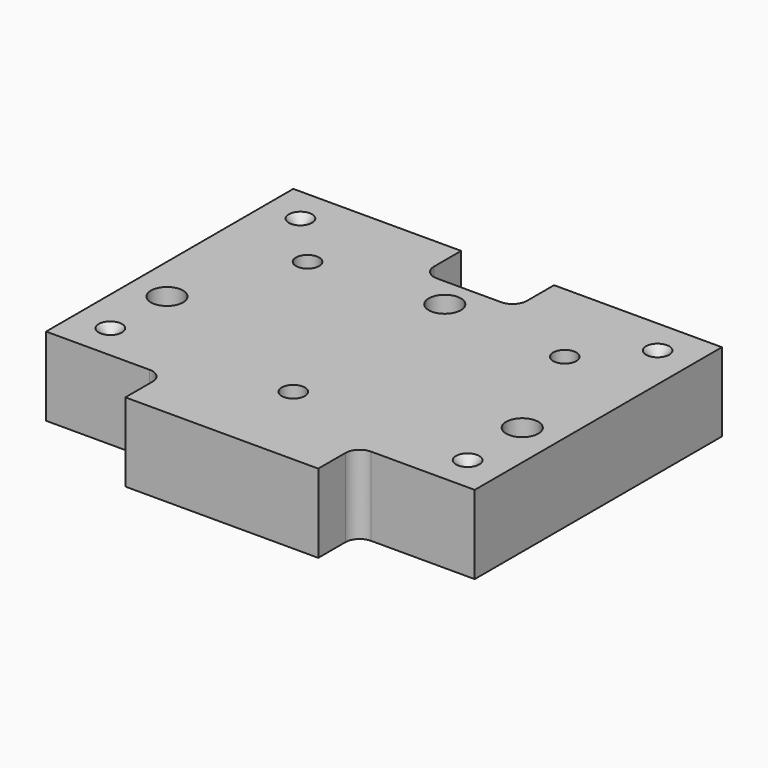
from build123d import *

# Parameters (mm, degrees)
SKETCH_W        = 120
SKETCH_H        = 100
PAD_DEPTH       = 22
SKETCH001_R     = 4.5
POCKET_DEPTH    = 22.001
POCKET001_DEPTH = 22.001
SKETCH003_R     = 1
POCKET002_DEPTH = 22.001
SKETCH004_R     = 10
POCKET003_DEPTH = 1.2
SKETCH005_R     = 3.25
POCKET004_DEPTH = 20.801
CHAMFER_SIZE    = 2.25


with BuildPart() as part:
    # Sketch → Pad (new body)
    with BuildSketch(Plane.XY):
        Rectangle(SKETCH_W, SKETCH_H)
    extrude(amount=PAD_DEPTH)

    # Sketch001 → Pocket (cut, through all)
    with BuildSketch(Plane(origin=(0, 0, 0), x_dir=(1, 0, 0), z_dir=(0, 0, -1))):
        with Locations((-49.725, 7.03)):
            Circle(SKETCH001_R)
        with Locations((0, -28.025)):
            Circle(SKETCH001_R)
        with Locations((49.725, 7.03)):
            Circle(SKETCH001_R)
    extrude(amount=-POCKET_DEPTH, mode=Mode.SUBTRACT)

    # Sketch002 → Pocket001 (cut, through all)
    with BuildSketch(Plane.XY.offset(22)):
        with BuildLine():
            Line((-60, -50), (-60, -36.5))
            Line((-60, -36.5), (-31, -36.5))
            ThreePointArc((-27, -40.5), (-28.171573, -37.671573), (-31, -36.5))
            Line((-27, -50), (-27, -40.5))
            Line((-27, -50), (-60, -50))
        make_face()
        with BuildLine():
            Line((60, -36.5), (60, -50))
            Line((60, -50), (27, -50))
            Line((27, -50), (27, -40.500015))
            ThreePointArc((31, -36.5), (28.171568, -37.671578), (27, -40.500015))
            Line((60, -36.5), (31, -36.5))
        make_face()
        with BuildLine():
            Line((13, 50), (-13, 50))
            Line((-13, 40.5), (-13, 50))
            ThreePointArc((-13, 40.5), (-11.828427, 37.671573), (-9, 36.5))
            Line((-9, 36.5), (9, 36.5))
            ThreePointArc((9, 36.5), (11.828427, 37.671573), (13, 40.5))
            Line((13, 40.5), (13, 50))
        make_face()
    extrude(amount=-POCKET001_DEPTH, mode=Mode.SUBTRACT)

    # Sketch003 → Pocket002 (cut, through all)
    with BuildSketch(Plane.XY.offset(22)):
        with Locations((50, -26.5)):
            Circle(SKETCH003_R)
        with Locations((-50, -26.5)):
            Circle(SKETCH003_R)
        with Locations((50, 40)):
            Circle(SKETCH003_R)
        with Locations((-50, 40)):
            Circle(SKETCH003_R)
    extrude(amount=-POCKET002_DEPTH, mode=Mode.SUBTRACT)

    # Sketch004 → Pocket003 (cut)
    with BuildSketch(Plane(origin=(0, 0, 0), x_dir=(1, 0, 0), z_dir=(0, 0, -1))):
        with Locations((0, 25)):
            Circle(SKETCH004_R)
        with Locations((-36, -25)):
            Circle(SKETCH004_R)
        with Locations((36, -25)):
            Circle(SKETCH004_R)
    extrude(amount=-POCKET003_DEPTH, mode=Mode.SUBTRACT)

    # Sketch005 → Pocket004 (cut, through all)
    with BuildSketch(Plane(origin=(0, 0, 1.2), x_dir=(1, 0, 0), z_dir=(0, 0, -1))):
        with Locations((0, 25)):
            Circle(SKETCH005_R)
        with Locations((36, -25)):
            Circle(SKETCH005_R)
        with Locations((-36, -25)):
            Circle(SKETCH005_R)
    extrude(amount=-POCKET004_DEPTH, mode=Mode.SUBTRACT)

    # Chamfer
    chamfer_edges = [part.edges().sort_by_distance(p)[0] for p in [
        (49, 40, 22),
        (49, -26.5, 22),
        (-51, -26.5, 22),
        (-51, 40, 22),
    ]]
    chamfer(chamfer_edges, length=CHAMFER_SIZE)


solid = part.part
